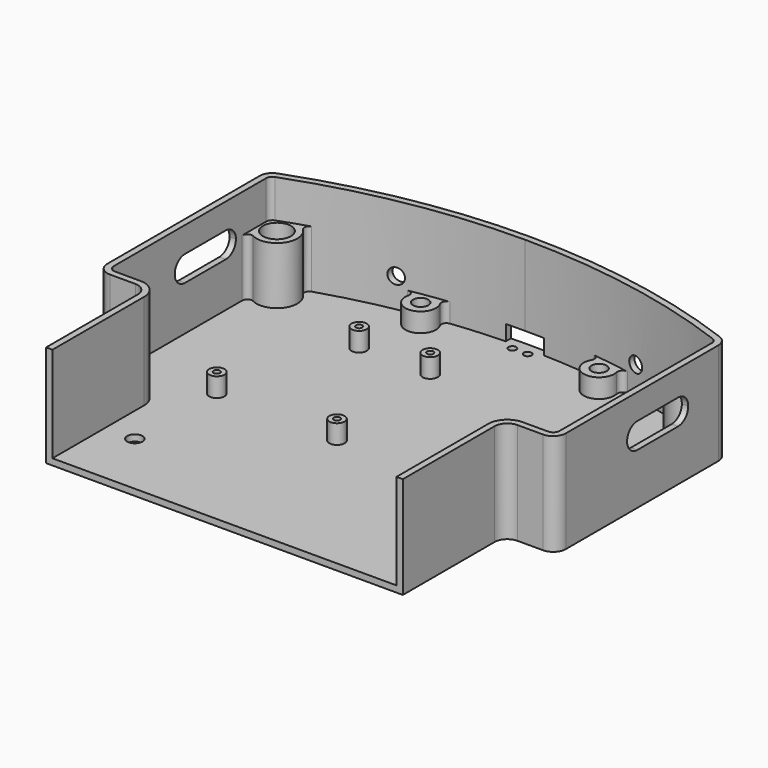
from build123d import *

# Parameters (mm, degrees)
F1_DEPTH       = 40
F2_W           = 100
F2_H           = 200
F3_DEPTH       = 100
F4_R           = 5
F5_T           = -2.5
F6_R           = 3
F7_DEPTH       = 25
F8_R           = 8
F9_DEPTH       = 25
F10_R          = 5.5
F11_DEPTH      = 25
F12_R          = 3
F12_R_2        = 1.25
F13_DEPTH      = 10
F14_R          = 3
F15_DEPTH      = 150
F17_START      = -41.94633
F16_W          = 15
F16_H          = 6
F17_DEPTH      = 208.05367
F18_R          = 1.5
F19_DEPTH      = 12.5
F20_R          = 6
F21_DEPTH      = 0.01
F21_DEPTH_BACK = 10
F22_R          = 3
F23_DEPTH      = 12.5
F24_R          = 2
F26_DEPTH      = 150


with BuildPart() as f1:
    # F0 (on Top) → F1 (new body)
    with BuildSketch(Plane.XY):
        with BuildLine():
            Line((-90, 83.2380757938), (-90, -50))
            Line((-90, -50), (90, -50))
            Line((90, -50), (90, 83.2380757938))
            ThreePointArc((90, 83.2380757938), (45.7737973711, 95.7737973711), (0, 100))
            ThreePointArc((0, 100), (-45.7737973711, 95.7737973711), (-90, 83.2380757938))
        make_face()
    extrude(amount=F1_DEPTH)

    # F2 (on Top) → F3 (cut)
    with BuildSketch(Plane.XY):
        with Locations((-120, -100)):
            Rectangle(F2_W, F2_H)
        with Locations((120, -100)):
            Rectangle(F2_W, F2_H)
    extrude(amount=F3_DEPTH, mode=Mode.SUBTRACT)

    # F4
    f4_edges = [f1.edges().sort_by_distance(p)[0] for p in [
        (-90, 83.238076, 20),
        (90, 83.238076, 20),
        (90, 0, 20),
        (70, 0, 20),
        (-90, 0, 20),
        (-70, 0, 20),
    ]]
    fillet(f4_edges, radius=F4_R)

    # F5
    f5_openings = [f1.faces().sort_by_distance(p)[0] for p in [
        (0, 26.262097, 40),
        (0, -50, 20),
    ]]
    offset(amount=F5_T, openings=f5_openings)

    # F6 (on Top) → F7 (cut)
    with BuildSketch(Plane.XY):
        with Locations((-55.8614357137, -24.1385642863)):
            Circle(F6_R)
        with Locations((55.8614357137, -24.1385642863)):
            Circle(F6_R)
    extrude(amount=F7_DEPTH, mode=Mode.SUBTRACT)

    # F8 (on Top) → F9 (join)
    with BuildSketch(Plane.XY):
        with Locations((-81, 77)):
            Circle(F8_R)
        with Locations((81, 77)):
            Circle(F8_R)
    extrude(amount=F9_DEPTH)

    # F10 (on Top) → F11 (cut)
    with BuildSketch(Plane.XY):
        with Locations((-81, 77)):
            Circle(F10_R)
        with Locations((81, 77)):
            Circle(F10_R)
    extrude(amount=F11_DEPTH, mode=Mode.SUBTRACT)

    # F12 (on Top) → F13 (join)
    with BuildSketch(Plane.XY):
        with Locations((-55, 15)):
            Circle(F12_R)
        with Locations((-55, 15)):
            Circle(F12_R_2, mode=Mode.SUBTRACT)
        with Locations((-39.8, 65.8)):
            Circle(F12_R)
        with Locations((-39.8, 65.8)):
            Circle(F12_R_2, mode=Mode.SUBTRACT)
        with Locations((-11.9, 65.8)):
            Circle(F12_R)
        with Locations((-11.9, 65.8)):
            Circle(F12_R_2, mode=Mode.SUBTRACT)
        with Locations((-6.8, 13.7)):
            Circle(F12_R)
        with Locations((-6.8, 13.7)):
            Circle(F12_R_2, mode=Mode.SUBTRACT)
    extrude(amount=F13_DEPTH)

    # F14 (on Front) → F15 (cut, symmetric)
    with BuildSketch(Plane.XZ):
        with Locations((47, 14)):
            Circle(F14_R)
        with Locations((-47, 14)):
            Circle(F14_R)
    extrude(amount=F15_DEPTH, both=True, mode=Mode.SUBTRACT)

    # F16 (on Front) → F17 (cut)
    with BuildSketch(Plane.XZ.offset(F17_START)):
        with Locations((0, 5.5)):
            Rectangle(F16_W, F16_H)
    extrude(amount=-F17_DEPTH, mode=Mode.SUBTRACT)

    # F18 (on Top) → F19 (cut, symmetric)
    with BuildSketch(Plane.XY):
        with Locations((-3, 95)):
            Circle(F18_R)
        with Locations((3, 95)):
            Circle(F18_R)
    extrude(amount=F19_DEPTH, both=True, mode=Mode.SUBTRACT)

    # F20 (on Top) → F21 (join, two sides)
    with BuildSketch(Plane.XY) as f21_sk:
        with Locations((-35, 90)):
            Circle(F20_R)
        with Locations((35, 90)):
            Circle(F20_R)
    extrude(amount=-F21_DEPTH)
    extrude(f21_sk.sketch, amount=F21_DEPTH_BACK)

    # F22 (on face) → F23 (cut, symmetric)
    with BuildSketch(Plane(origin=(0, 0, 0), x_dir=(1, 0, 0), z_dir=(0, 0, -1))):
        with Locations((-35, -90)):
            Circle(F22_R)
        with Locations((35, -90)):
            Circle(F22_R)
    extrude(amount=F23_DEPTH, both=True, mode=Mode.SUBTRACT)

    # F24
    f24_edges = [f1.edges().sort_by_distance(p)[0] for p in [
        (-87.5, 72.33631, 13.75),
        (-78.687247, 84.658405, 13.75),
        (-32.339812, 95.378048, 6.25),
        (-39.085326, 94.394328, 6.25),
        (39.085326, 94.394328, 6.25),
        (32.339812, 95.378048, 6.25),
        (78.687247, 84.658405, 13.75),
        (87.5, 72.33631, 13.75),
    ]]
    fillet(f24_edges, radius=F24_R)

    # F25 (on Right) → F26 (cut, symmetric)
    with BuildSketch(Plane.YZ):
        with BuildLine():
            Line((40, 20), (40, 30))
            ThreePointArc((40, 30), (35, 25), (40, 20))
        make_face()
        with BuildLine():
            ThreePointArc((65, 25), (63.5355339059, 28.5355339059), (60, 30))
            Line((60, 30), (60, 20))
            ThreePointArc((60, 20), (63.5355339059, 21.4644660941), (65, 25))
        make_face()
        with BuildLine():
            Line((60, 30), (40, 30))
            ThreePointArc((40, 30), (43.5355339059, 28.5355339059), (45, 25))
            ThreePointArc((45, 25), (43.5355339059, 21.4644660941), (40, 20))
            Line((40, 20), (60, 20))
            ThreePointArc((60, 20), (55, 25), (60, 30))
        make_face()
        with BuildLine():
            ThreePointArc((45, 25), (43.5355339059, 28.5355339059), (40, 30))
            Line((40, 30), (40, 20))
            ThreePointArc((40, 20), (43.5355339059, 21.4644660941), (45, 25))
        make_face()
        with BuildLine():
            Line((60, 20), (60, 30))
            ThreePointArc((60, 30), (55, 25), (60, 20))
        make_face()
    extrude(amount=F26_DEPTH, both=True, mode=Mode.SUBTRACT)


solid = f1.part
